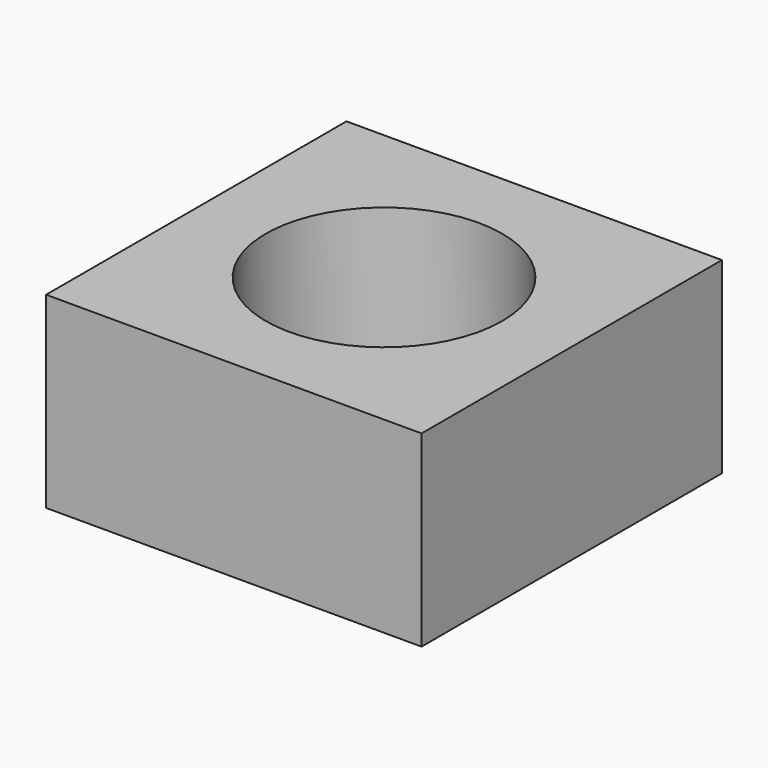
from build123d import *

# Parameters (mm, degrees)
CYLINDER040_R     = 4
CYLINDER040_DEPTH = 10
BOX019_W          = 12.7
BOX019_H          = 12.7
BOX019_DEPTH      = 6.35


with BuildPart() as cylinder040:
    # Cylinder040 → Cylinder040 (new body)
    with BuildSketch(Plane(origin=(6.35, 6.35, 0), x_dir=(1, 0, 0), z_dir=(0, 0, 1))):
        Circle(CYLINDER040_R)
    extrude(amount=CYLINDER040_DEPTH)


with BuildPart() as m8_nut006:
    # Box019 → Box019 (new body)
    with BuildSketch(Plane.XY):
        with Locations((6.35, 6.35)):
            Rectangle(BOX019_W, BOX019_H)
    extrude(amount=BOX019_DEPTH)

    # Cut017: cut Cylinder040
    add(cylinder040.part, mode=Mode.SUBTRACT)


with BuildPart() as m8_nut006_1:
    # Cut017 placement: moved
    add(m8_nut006.part.moved(Location((-25.4, -6.35, 908.05))))


solid = m8_nut006_1.part
